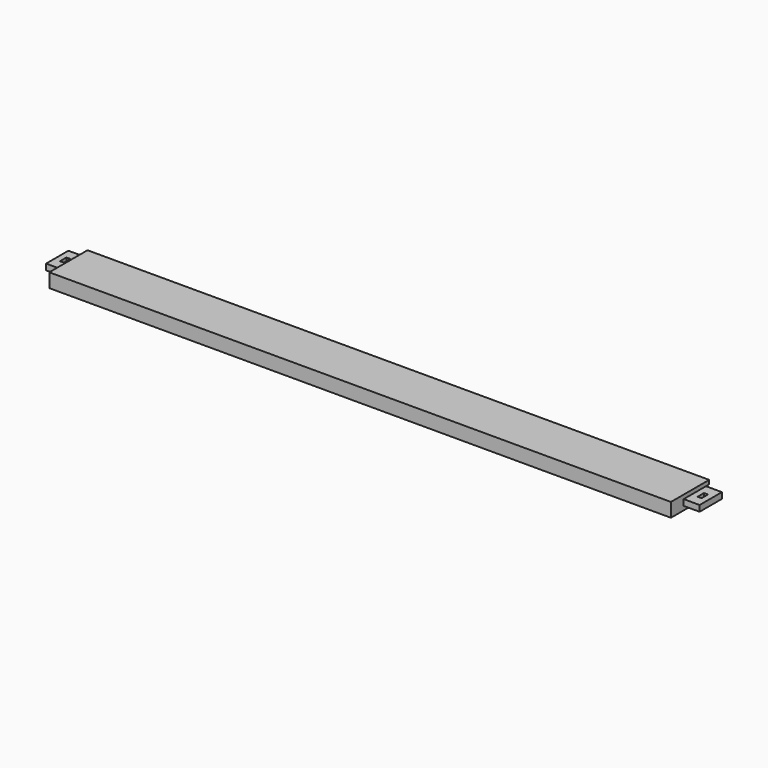
from build123d import *

# Parameters (mm, degrees)
F0_W     = 50.8
F0_H     = 101.6
F1_DEPTH = 44.45
F2_W     = 50.8
F2_H     = 101.6
F3_DEPTH = 12.7
F4_W     = 50.8
F4_H     = 101.6
F5_DEPTH = 12.7
F6_W     = 2082.8
F6_H     = 19.05
F7_DEPTH = 12.7
F8_W     = 12.7
F8_H     = 25.4
F9_DEPTH = 31.751


with BuildPart() as f1:
    # F0 (on Top) → F1 (new body)
    with BuildSketch(Plane.XY):
        Polygon((1020.749743, -440.41436), (-960.450257, -440.41436), (-960.450257, -542.01436), (-960.450257, -592.81436), (1020.749743, -592.81436), (1020.749743, -542.01436), align=None)
        with Locations((-985.850257, -491.21436)):
            Rectangle(F0_W, F0_H)
        with Locations((1046.149743, -491.21436)):
            Rectangle(F0_W, F0_H)
    extrude(amount=F1_DEPTH)

    # F2 (on Top) → F3 (cut)
    with BuildSketch(Plane.XY):
        with Locations((-985.850257, -491.21436)):
            Rectangle(F2_W, F2_H)
        with Locations((1046.149743, -491.21436)):
            Rectangle(F2_W, F2_H)
    extrude(amount=F3_DEPTH, mode=Mode.SUBTRACT)

    # F4 (on face) → F5 (cut)
    with BuildSketch(Plane.XY.offset(44.45)):
        with Locations((1046.149743, -491.21436)):
            Rectangle(F4_W, F4_H)
        with Locations((-985.850257, -491.21436)):
            Rectangle(F4_W, F4_H)
    extrude(amount=-F5_DEPTH, mode=Mode.SUBTRACT)

    # F6 (on face) → F7 (cut)
    with BuildSketch(Plane(origin=(0, -440.41436, 0), x_dir=(-1, 0, 0), z_dir=(0, 1, 0))):
        with Locations((-30.149743, 22.225)):
            Rectangle(F6_W, F6_H)
    extrude(amount=-F7_DEPTH, mode=Mode.SUBTRACT)

    # F8 (on face) → F9 (cut, through all)
    with BuildSketch(Plane(origin=(0, 0, 12.7), x_dir=(1, 0, 0), z_dir=(0, 0, -1))):
        with Locations((-985.850257, 497.56436)):
            Rectangle(F8_W, F8_H)
        with Locations((1046.149743, 497.56436)):
            Rectangle(F8_W, F8_H)
    extrude(amount=-F9_DEPTH, mode=Mode.SUBTRACT)


solid = f1.part
